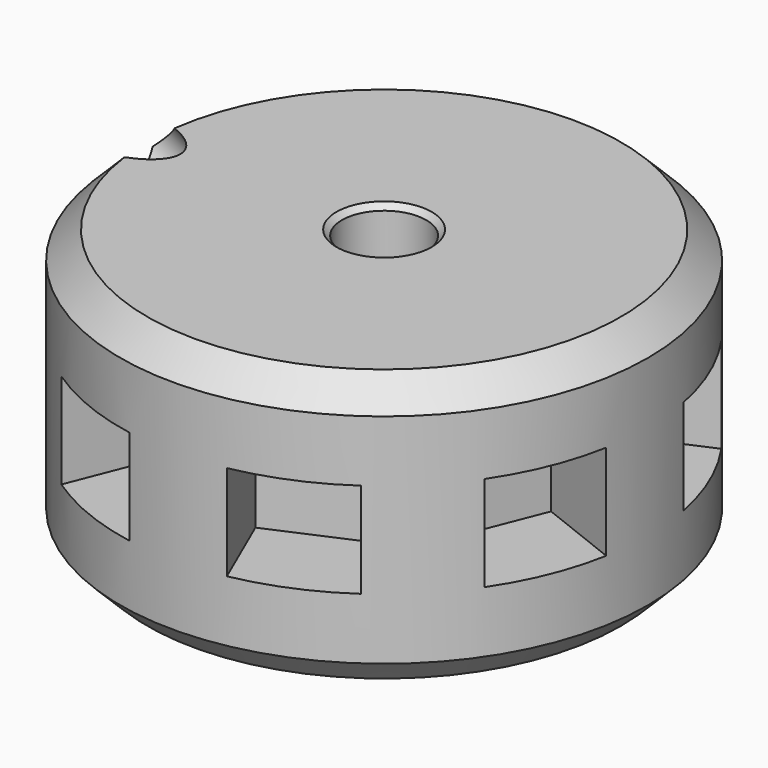
from build123d import *

# Parameters (mm, degrees)
BOX001_W                = 4
BOX001_H                = 10
BOX001_DEPTH            = 3.5
BOX001_PLACEMENT_ANGLE  = 1
ARRAY_COUNT             = 8
ARRAY_PLACEMENT_ANGLE   = 22.5
CYLINDER004_R           = 1.45
CYLINDER004_DEPTH       = 50
CYLINDER004_PITCH_ANGLE = -60
CYLINDER002_R           = 1.55
CYLINDER002_DEPTH       = 20
CYLINDER_R              = 9.7
CYLINDER_DEPTH          = 10
CHAMFER_SIZE            = 1
CHAMFER001_SIZE         = 0.2


with BuildPart() as array:
    # Box001 → Box001 (new body)
    with BuildSketch(Plane.XY):
        with Locations((2, 5)):
            Rectangle(BOX001_W, BOX001_H)
    extrude(amount=BOX001_DEPTH)


with BuildPart() as array_1:
    # Box001 placement: moved
    add(array.part.moved(Location((-2, 6.3, 3.25))).rotate(Axis((-2, 6.3, 3.25), (0, 0, 1)), BOX001_PLACEMENT_ANGLE))

    # Array: Array ×8 about axis
    array_axis = Axis((0, 0, 0), (0, 0, 1))


with BuildPart() as array_2:
    add(array_1.part)
    for i in range(1, ARRAY_COUNT):
        add(array_1.part.rotate(array_axis, i * 360 / ARRAY_COUNT))


with BuildPart() as array_3:
    # Array placement: moved
    add(array_2.part.rotate(Axis((0, 0, 0), (0, 0, 1)), ARRAY_PLACEMENT_ANGLE))


with BuildPart() as tornillo:
    # Cylinder004 → Cylinder004 (new body)
    with BuildSketch(Plane.XY):
        Circle(CYLINDER004_R)
    extrude(amount=CYLINDER004_DEPTH)


with BuildPart() as tornillo_1:
    # Cylinder004 pitch: moved
    add(tornillo.part.rotate(Axis((0, 0, 0), (0, 1, 0)), CYLINDER004_PITCH_ANGLE))


with BuildPart() as tornillo_2:
    # Cylinder004 placement: moved
    add(tornillo_1.part.moved(Location((0, 0, 4))))


with BuildPart() as fusion:
    # Cylinder002 → Cylinder002 (new body)
    with BuildSketch(Plane.XY):
        Circle(CYLINDER002_R)
    extrude(amount=CYLINDER002_DEPTH)

    # Fusion: union Array, tornillo
    add(array_3.part)
    add(tornillo_2.part)


with BuildPart() as chamfer001:
    # Cylinder → Cylinder (new body)
    with BuildSketch(Plane.XY):
        Circle(CYLINDER_R)
    extrude(amount=CYLINDER_DEPTH)

    # Chamfer
    chamfer_edges = [chamfer001.edges().sort_by_distance(p)[0] for p in [
        (-9.7, 0, 10),
        (-9.7, 0, 0),
    ]]
    chamfer(chamfer_edges, length=CHAMFER_SIZE)

    # Cut: cut Fusion
    add(fusion.part, mode=Mode.SUBTRACT)

    # Chamfer001
    chamfer001_edges = [chamfer001.edges().sort_by_distance(p)[0] for p in [
        (-1.55, 0, 0),
        (-1.55, 0, 10),
    ]]
    chamfer(chamfer001_edges, length=CHAMFER001_SIZE)


solid = chamfer001.part
